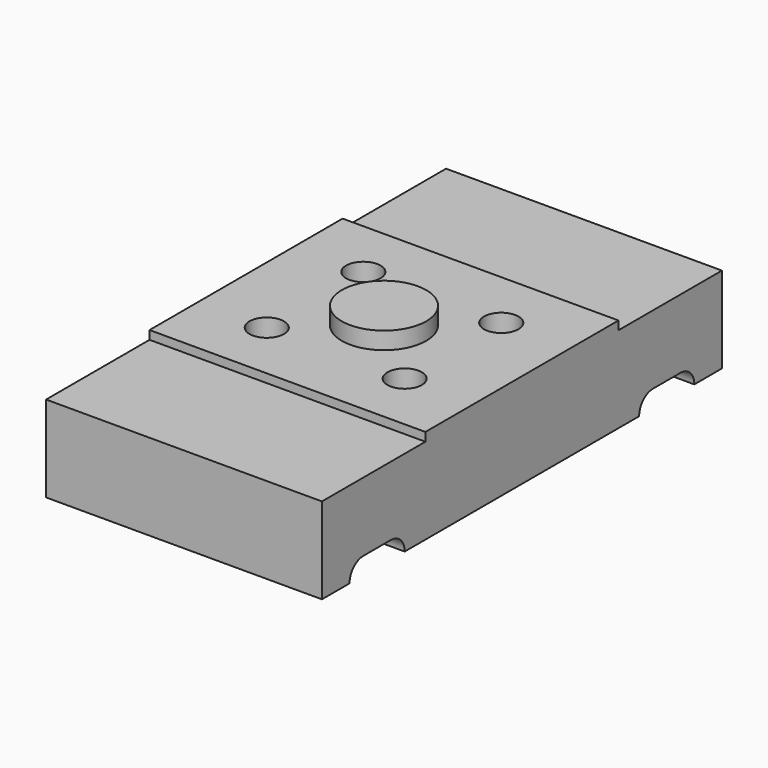
from build123d import *

# Parameters (mm, degrees)
SKETCH_W      = 32
SKETCH_H      = 28
SKETCH_R      = 2
PAD_DEPTH     = 11
SKETCH001_R   = 4.9
PAD001_DEPTH  = 2
SKETCH002_W   = 32
SKETCH002_H   = 58
SKETCH002_W_2 = 25.648531
SKETCH002_H_2 = 22.342523
PAD002_DEPTH  = 10
POCKET_DEPTH  = 167.012111
CHAMFER_SIZE  = 1.5


with BuildPart() as part:
    # Sketch → Pad (new body)
    with BuildSketch(Plane.XY):
        Rectangle(SKETCH_W, SKETCH_H)
        with Locations((8, 7)):
            Circle(SKETCH_R, mode=Mode.SUBTRACT)
        with Locations((8, -7)):
            Circle(SKETCH_R, mode=Mode.SUBTRACT)
        with Locations((-8, -7)):
            Circle(SKETCH_R, mode=Mode.SUBTRACT)
        with Locations((-8, 7)):
            Circle(SKETCH_R, mode=Mode.SUBTRACT)
    extrude(amount=PAD_DEPTH)

    # Sketch001 (on Face10 of Pad) → Pad001 (join)
    with BuildSketch(Plane.XY.offset(11)):
        Circle(SKETCH001_R)
    extrude(amount=PAD001_DEPTH)

    # Sketch002 → Pad002 (join)
    with BuildSketch(Plane.XY):
        Rectangle(SKETCH002_W, SKETCH002_H)
        with Locations((-0.824266, 0.828739)):
            Rectangle(SKETCH002_W_2, SKETCH002_H_2, mode=Mode.SUBTRACT)
    extrude(amount=PAD002_DEPTH)

    # Sketch003 (on Face15 of Pad002) → Pocket (cut, through all)
    with BuildSketch(Plane(origin=(-16, 0, 0), x_dir=(0, -1, 0), z_dir=(-1, 0, 0))):
        with BuildLine():
            ThreePointArc((-23, 2), (-25, 0), (-23, -2))
            Line((-23, -2), (-19, -2))
            ThreePointArc((-19, -2), (-17, 0), (-19, 2))
            Line((-23, 2), (-19, 2))
        make_face()
    pocket = extrude(amount=-POCKET_DEPTH, mode=Mode.SUBTRACT)

    # Mirrored: Pocket across XZ
    add(pocket.mirror(Plane.XZ), mode=Mode.SUBTRACT)

    # Chamfer
    chamfer_edges = [part.edges().sort_by_distance(p)[0] for p in [
        (-10, 7, 0),
        (6, 7, 0),
        (6, -7, 0),
        (-10, -7, 0),
    ]]
    chamfer(chamfer_edges, length=CHAMFER_SIZE)


solid = part.part
